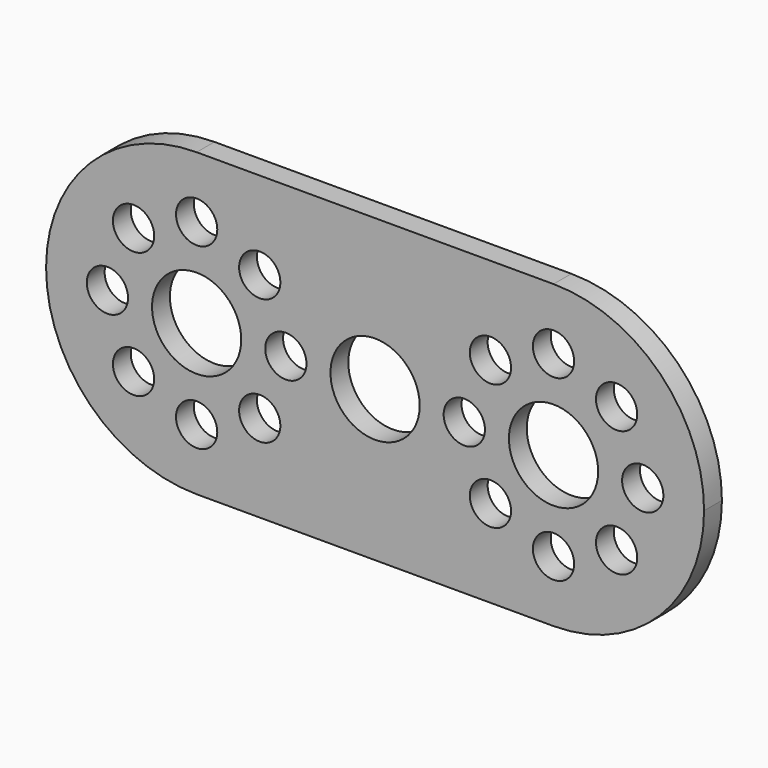
from build123d import *

# Parameters (mm, degrees)
F0_R     = 1.85
F0_R_2   = 4
F1_DEPTH = 2


with BuildPart() as f1:
    # F0 (on Front) → F1 (new body)
    with BuildSketch(Plane.XZ):
        with BuildLine():
            ThreePointArc((29.5, 0), (25.545942, 9.545942), (16, 13.5))
            Line((16, 13.5), (-16, 13.5))
            ThreePointArc((-16, 13.5), (-25.545942, 9.545942), (-29.5, 0))
            ThreePointArc((-29.5, 0), (-25.545942, -9.545942), (-16, -13.5))
            Line((-16, -13.5), (16, -13.5))
            ThreePointArc((16, -13.5), (25.545942, -9.545942), (29.5, 0))
        make_face()
        with Locations((-16, -8)):
            Circle(F0_R, mode=Mode.SUBTRACT)
        with Locations((-21.656854, -5.656854)):
            Circle(F0_R, mode=Mode.SUBTRACT)
        with Locations((-10.343146, -5.656854)):
            Circle(F0_R, mode=Mode.SUBTRACT)
        with Locations((16, -8)):
            Circle(F0_R, mode=Mode.SUBTRACT)
        with Locations((10.343146, -5.656854)):
            Circle(F0_R, mode=Mode.SUBTRACT)
        with Locations((21.656854, -5.656854)):
            Circle(F0_R, mode=Mode.SUBTRACT)
        with Locations((-24, 0)):
            Circle(F0_R, mode=Mode.SUBTRACT)
        with Locations((-16, 0)):
            Circle(F0_R_2, mode=Mode.SUBTRACT)
        with Locations((-21.656854, 5.656854)):
            Circle(F0_R, mode=Mode.SUBTRACT)
        with Locations((-8, 0)):
            Circle(F0_R, mode=Mode.SUBTRACT)
        with Locations((-10.343146, 5.656854)):
            Circle(F0_R, mode=Mode.SUBTRACT)
        with Locations((-16, 8)):
            Circle(F0_R, mode=Mode.SUBTRACT)
        Circle(F0_R_2, mode=Mode.SUBTRACT)
        with Locations((8, 0)):
            Circle(F0_R, mode=Mode.SUBTRACT)
        with Locations((10.343146, 5.656854)):
            Circle(F0_R, mode=Mode.SUBTRACT)
        with Locations((16, 0)):
            Circle(F0_R_2, mode=Mode.SUBTRACT)
        with Locations((24, 0)):
            Circle(F0_R, mode=Mode.SUBTRACT)
        with Locations((21.656854, 5.656854)):
            Circle(F0_R, mode=Mode.SUBTRACT)
        with Locations((16, 8)):
            Circle(F0_R, mode=Mode.SUBTRACT)
    extrude(amount=F1_DEPTH)


solid = f1.part
